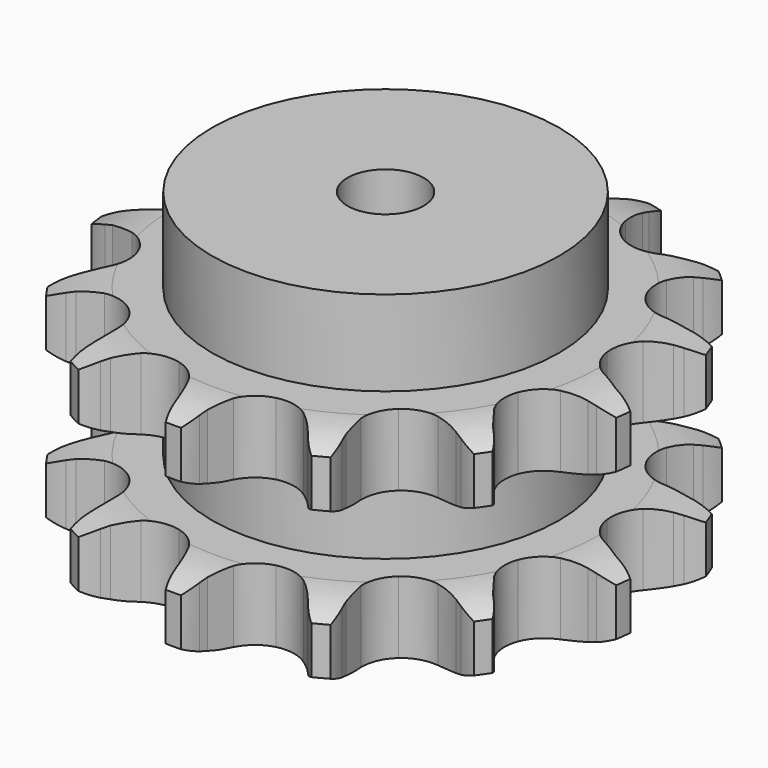
from build123d import *

# Parameters (mm, degrees)
PAD_DEPTH         = 72
SKETCH001_R       = 57
PAD001_DEPTH      = 100
SKETCH002_R       = 12.5
POCKET_DEPTH      = 0.001
POCKET_DEPTH_BACK = 100.001


with BuildPart() as part:
    # Sprocket → Pad (new body)
    with BuildSketch(Plane.XY):
        with BuildLine():
            ThreePointArc((-21.75253, 88.253485), (-18.049678, 84.737673), (-15.285411, 80.444554))
            Line((-15.285411, 80.444554), (-14.135613, 78.079063))
            ThreePointArc((-14.135613, 78.079063), (-12.197192, 74.631347), (-9.861611, 71.439282))
            ThreePointArc((-9.861611, 71.439282), (-5.449101, 68.018011), (0, 66.800377))
            ThreePointArc((0, 66.800377), (5.449101, 68.018011), (9.861611, 71.439282))
            ThreePointArc((9.861611, 71.439282), (12.197192, 74.631347), (14.135613, 78.079063))
            Line((14.135613, 78.079063), (15.285411, 80.444554))
            ThreePointArc((15.285411, 80.444554), (18.049678, 84.737673), (21.75253, 88.253485))
            ThreePointArc((21.75253, 88.253485), (23.397364, 83.419587), (23.849889, 78.3336))
            Line((23.849889, 78.3336), (23.768686, 75.704723))
            ThreePointArc((23.768686, 75.704723), (23.88284, 71.751094), (24.467467, 67.839262))
            ThreePointArc((24.467467, 67.839262), (26.784607, 62.759281), (31.043683, 59.148796))
            ThreePointArc((31.043683, 59.148796), (36.434485, 57.694634), (41.931512, 58.673423))
            Line((41.931512, 58.673423), (48.801613, 62.56643))
            ThreePointArc((48.801613, 62.56643), (49.844818, 63.367556), (50.919008, 64.12663))
            ThreePointArc((50.919008, 64.12663), (55.361757, 66.64338), (60.274348, 68.035675))
            ThreePointArc((60.274348, 68.035675), (59.484352, 62.991079), (57.521467, 58.277362))
            Line((57.521467, 58.277362), (56.227866, 55.987344))
            ThreePointArc((56.227866, 55.987344), (54.4916, 52.433529), (53.191343, 48.698084))
            ThreePointArc((53.191343, 48.698084), (52.882284, 43.123157), (54.975632, 37.946939))
            ThreePointArc((54.975632, 37.946939), (59.073168, 34.154112), (64.39541, 32.466191))
            Line((64.39541, 32.466191), (72.287752, 32.720582))
            ThreePointArc((72.287752, 32.720582), (73.583766, 32.945142), (74.887674, 33.118068))
            ThreePointArc((74.887674, 33.118068), (79.991124, 33.281891), (84.98804, 32.231712))
            ThreePointArc((84.98804, 32.231712), (81.944192, 28.132074), (78.01557, 24.870483))
            Line((78.01557, 24.870483), (75.805919, 23.443939))
            ThreePointArc((75.805919, 23.443939), (72.616992, 21.104075), (69.729723, 18.400763))
            ThreePointArc((69.729723, 18.400763), (66.865267, 13.608036), (66.313327, 8.051896))
            ThreePointArc((66.313327, 8.051896), (68.1789, 2.789294), (72.107095, -1.178655))
            Line((72.107095, -1.178655), (79.213638, -4.621157))
            ThreePointArc((79.213638, -4.621157), (80.46556, -5.024606), (81.700476, -5.477444))
            ThreePointArc((81.700476, -5.477444), (86.295489, -7.704078), (90.231995, -10.956148))
            ThreePointArc((90.231995, -10.956148), (85.631605, -13.171651), (80.637246, -14.233924))
            Line((80.637246, -14.233924), (78.017749, -14.47019))
            ThreePointArc((78.017749, -14.47019), (74.106706, -15.060068), (70.293864, -16.111952))
            ThreePointArc((70.293864, -16.111952), (65.530223, -19.024521), (62.459437, -23.68774))
            ThreePointArc((62.459437, -23.68774), (61.665668, -29.214517), (63.299913, -34.553485))
            Line((63.299913, -34.553485), (67.992634, -40.904245))
            ThreePointArc((67.992634, -40.904245), (68.913664, -41.843278), (69.796683, -42.81814))
            ThreePointArc((69.796683, -42.81814), (72.830597, -46.925135), (74.804888, -51.634086))
            ThreePointArc((74.804888, -51.634086), (69.701849, -51.457909), (64.785901, -50.077511))
            Line((64.785901, -50.077511), (62.356654, -49.069373))
            ThreePointArc((62.356654, -49.069373), (58.619466, -47.774131), (54.754528, -46.933613))
            ThreePointArc((54.754528, -46.933613), (49.182995, -47.29879), (44.296844, -50.0008))
            ThreePointArc((44.296844, -50.0008), (41.025574, -54.525635), (39.991485, -60.012528))
            Line((39.991485, -60.012528), (41.195337, -67.816663))
            ThreePointArc((41.195337, -67.816663), (41.574478, -69.076159), (41.903312, -70.349716))
            ThreePointArc((41.903312, -70.349716), (42.681093, -75.39621), (42.240883, -80.483278))
            ThreePointArc((42.240883, -80.483278), (37.80424, -77.95578), (34.092887, -74.448943))
            Line((34.092887, -74.448943), (32.4104, -72.427353))
            ThreePointArc((32.4104, -72.427353), (29.703214, -69.543717), (26.67159, -67.003348))
            ThreePointArc((26.67159, -67.003348), (21.568536, -64.737476), (15.986377, -64.859279))
            ThreePointArc((15.986377, -64.859279), (10.987016, -67.345587), (7.521489, -71.723424))
            Line((7.521489, -71.723424), (4.960685, -79.193101))
            ThreePointArc((4.960685, -79.193101), (4.71108, -80.484525), (4.410397, -81.76502))
            ThreePointArc((4.410397, -81.76502), (2.753865, -86.594921), (0, -90.89472))
            ThreePointArc((0, -90.89472), (-2.753865, -86.594921), (-4.410397, -81.76502))
            Line((-4.410397, -81.76502), (-4.960685, -79.193101))
            ThreePointArc((-4.960685, -79.193101), (-6.017687, -75.381675), (-7.521489, -71.723424))
            ThreePointArc((-7.521489, -71.723424), (-10.987016, -67.345587), (-15.986377, -64.859279))
            ThreePointArc((-15.986377, -64.859279), (-21.568536, -64.737476), (-26.67159, -67.003348))
            Line((-26.67159, -67.003348), (-32.4104, -72.427353))
            ThreePointArc((-32.4104, -72.427353), (-33.231569, -73.454855), (-34.092887, -74.448943))
            ThreePointArc((-34.092887, -74.448943), (-37.80424, -77.95578), (-42.240883, -80.483278))
            ThreePointArc((-42.240883, -80.483278), (-42.681093, -75.39621), (-41.903312, -70.349716))
            Line((-41.903312, -70.349716), (-41.195337, -67.816663))
            ThreePointArc((-41.195337, -67.816663), (-40.360008, -63.9506), (-39.991485, -60.012528))
            ThreePointArc((-39.991485, -60.012528), (-41.025574, -54.525635), (-44.296844, -50.0008))
            ThreePointArc((-44.296844, -50.0008), (-49.182995, -47.29879), (-54.754528, -46.933613))
            Line((-54.754528, -46.933613), (-62.356654, -49.069373))
            ThreePointArc((-62.356654, -49.069373), (-63.561267, -49.597564), (-64.785901, -50.077511))
            ThreePointArc((-64.785901, -50.077511), (-69.701849, -51.457909), (-74.804888, -51.634086))
            ThreePointArc((-74.804888, -51.634086), (-72.830597, -46.925135), (-69.796683, -42.81814))
            Line((-69.796683, -42.81814), (-67.992634, -40.904245))
            ThreePointArc((-67.992634, -40.904245), (-65.456338, -37.869213), (-63.299913, -34.553485))
            ThreePointArc((-63.299913, -34.553485), (-61.665668, -29.214517), (-62.459437, -23.68774))
            ThreePointArc((-62.459437, -23.68774), (-65.530223, -19.024521), (-70.293864, -16.111952))
            Line((-70.293864, -16.111952), (-78.017749, -14.47019))
            ThreePointArc((-78.017749, -14.47019), (-79.329844, -14.378068), (-80.637246, -14.233924))
            ThreePointArc((-80.637246, -14.233924), (-85.631605, -13.171651), (-90.231995, -10.956148))
            ThreePointArc((-90.231995, -10.956148), (-86.295489, -7.704078), (-81.700476, -5.477444))
            Line((-81.700476, -5.477444), (-79.213638, -4.621157))
            ThreePointArc((-79.213638, -4.621157), (-75.55741, -3.112445), (-72.107095, -1.178655))
            ThreePointArc((-72.107095, -1.178655), (-68.1789, 2.789294), (-66.313327, 8.051896))
            ThreePointArc((-66.313327, 8.051896), (-66.865267, 13.608036), (-69.729723, 18.400763))
            Line((-69.729723, 18.400763), (-75.805919, 23.443939))
            ThreePointArc((-75.805919, 23.443939), (-76.92491, 24.135269), (-78.01557, 24.870483))
            ThreePointArc((-78.01557, 24.870483), (-81.944192, 28.132074), (-84.98804, 32.231712))
            ThreePointArc((-84.98804, 32.231712), (-79.991124, 33.281891), (-74.887674, 33.118068))
            Line((-74.887674, 33.118068), (-72.287752, 32.720582))
            ThreePointArc((-72.287752, 32.720582), (-68.349189, 32.357345), (-64.39541, 32.466191))
            ThreePointArc((-64.39541, 32.466191), (-59.073168, 34.154112), (-54.975632, 37.946939))
            ThreePointArc((-54.975632, 37.946939), (-52.882284, 43.123157), (-53.191343, 48.698084))
            Line((-53.191343, 48.698084), (-56.227866, 55.987344))
            ThreePointArc((-56.227866, 55.987344), (-56.897406, 57.119508), (-57.521467, 58.277362))
            ThreePointArc((-57.521467, 58.277362), (-59.484352, 62.991079), (-60.274348, 68.035675))
            ThreePointArc((-60.274348, 68.035675), (-55.361757, 66.64338), (-50.919008, 64.12663))
            Line((-50.919008, 64.12663), (-48.801613, 62.56643))
            ThreePointArc((-48.801613, 62.56643), (-45.482993, 60.414459), (-41.931512, 58.673423))
            ThreePointArc((-41.931512, 58.673423), (-36.434485, 57.694634), (-31.043683, 59.148796))
            ThreePointArc((-31.043683, 59.148796), (-26.784607, 62.759281), (-24.467467, 67.839262))
            Line((-24.467467, 67.839262), (-23.768686, 75.704723))
            ThreePointArc((-23.768686, 75.704723), (-23.835392, 77.018355), (-23.849889, 78.3336))
            ThreePointArc((-23.849889, 78.3336), (-23.397364, 83.419587), (-21.75253, 88.253485))
        make_face()
    extrude(amount=PAD_DEPTH)

    # Sketch → Groove (revolve, cut)
    with BuildSketch(Plane.XZ):
        with BuildLine():
            ThreePointArc((70.129437, 0), (78.847235, 1.013516), (87.1, 4))
            Line((87.1, 4), (87.1, 19.6))
            ThreePointArc((87.1, 19.6), (78.847235, 22.586484), (70.129437, 23.6))
            Line((57, 23.6), (70.129437, 23.6))
            Line((57, 48.4), (57, 23.6))
            Line((70.129437, 48.4), (57, 48.4))
            ThreePointArc((70.129437, 48.4), (78.847235, 49.413516), (87.1, 52.4))
            Line((87.1, 52.4), (87.1, 68))
            ThreePointArc((87.1, 68), (78.847235, 70.986484), (70.129437, 72))
            Line((70.129437, 72), (97.1, 72))
            Line((97.1, 72), (97.1, 0))
            Line((70.129437, 0), (97.1, 0))
        make_face()
    revolve(axis=Axis((0, 0, 0), (0, 0, 1)), mode=Mode.SUBTRACT)

    # Sketch001 → Pad001 (join)
    with BuildSketch(Plane.XY):
        Circle(SKETCH001_R)
    extrude(amount=PAD001_DEPTH)

    # Sketch002 → Pocket (cut, two sides)
    with BuildSketch(Plane.XY) as pocket_sk:
        Circle(SKETCH002_R)
    extrude(amount=-POCKET_DEPTH, mode=Mode.SUBTRACT)
    extrude(pocket_sk.sketch, amount=POCKET_DEPTH_BACK, mode=Mode.SUBTRACT)


solid = part.part
